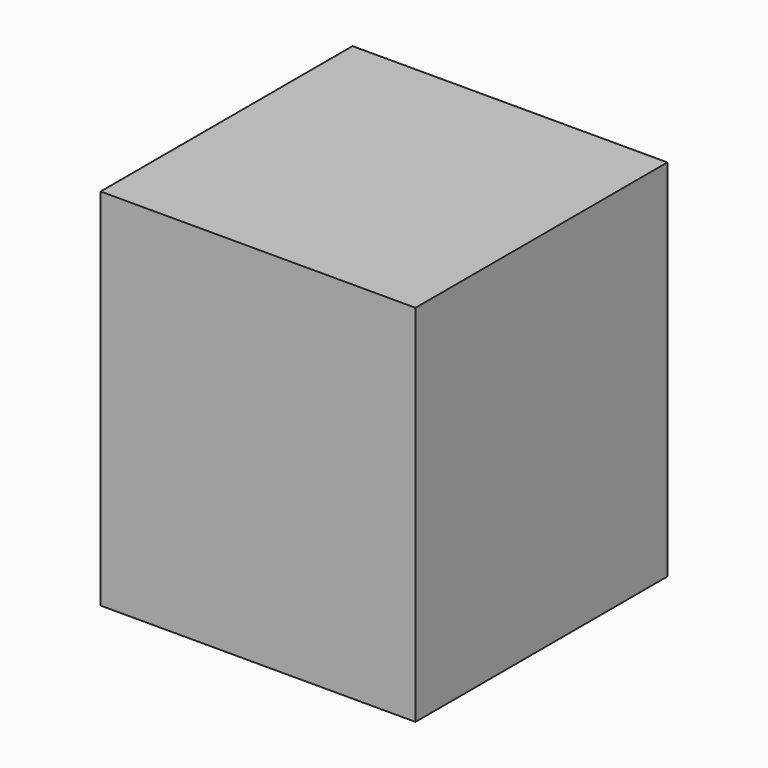
from build123d import *

# Parameters (mm, degrees)
CUBE009_W     = 8
CUBE009_H     = 8
CUBE009_DEPTH = 22
CUBE008_W     = 8
CUBE008_H     = 8
CUBE008_DEPTH = 22
CUBE007_W     = 8
CUBE007_H     = 8
CUBE007_DEPTH = 22
CUBE006_W     = 8
CUBE006_H     = 8
CUBE006_DEPTH = 22
CUBE011_W     = 18
CUBE011_H     = 1
CUBE011_DEPTH = 22
CUBE010_W     = 1
CUBE010_H     = 18
CUBE010_DEPTH = 22
CUBE005_W     = 19
CUBE005_H     = 19
CUBE005_DEPTH = 22


with BuildPart() as cube009:
    # cube009 → cube009 (new body)
    with BuildSketch(Plane(origin=(0.5, 0.5, -11), x_dir=(1, 0, 0), z_dir=(0, 0, 1))):
        with Locations((4, 4)):
            Rectangle(CUBE009_W, CUBE009_H)
    extrude(amount=CUBE009_DEPTH)


with BuildPart() as group006:
    # cube008 → cube008 (new body)
    with BuildSketch(Plane(origin=(0.5, -8.5, -11), x_dir=(1, 0, 0), z_dir=(0, 0, 1))):
        with Locations((4, 4)):
            Rectangle(CUBE008_W, CUBE008_H)
    extrude(amount=CUBE008_DEPTH)

    # Group006: union cube009
    add(cube009.part)


with BuildPart() as cube007:
    # cube007 → cube007 (new body)
    with BuildSketch(Plane(origin=(-8.5, 0.5, -11), x_dir=(1, 0, 0), z_dir=(0, 0, 1))):
        with Locations((4, 4)):
            Rectangle(CUBE007_W, CUBE007_H)
    extrude(amount=CUBE007_DEPTH)


with BuildPart() as group007:
    # cube006 → cube006 (new body)
    with BuildSketch(Plane(origin=(-8.5, -8.5, -11), x_dir=(1, 0, 0), z_dir=(0, 0, 1))):
        with Locations((4, 4)):
            Rectangle(CUBE006_W, CUBE006_H)
    extrude(amount=CUBE006_DEPTH)

    # Group005: union cube007
    add(cube007.part)

    # Group007: union Group006
    add(group006.part)


with BuildPart() as cube011:
    # cube011 → cube011 (new body)
    with BuildSketch(Plane(origin=(-9, -0.5, -11), x_dir=(1, 0, 0), z_dir=(0, 0, 1))):
        with Locations((9, 0.5)):
            Rectangle(CUBE011_W, CUBE011_H)
    extrude(amount=CUBE011_DEPTH)


with BuildPart() as group008:
    # cube010 → cube010 (new body)
    with BuildSketch(Plane(origin=(-0.5, -9, -11), x_dir=(1, 0, 0), z_dir=(0, 0, 1))):
        with Locations((0.5, 9)):
            Rectangle(CUBE010_W, CUBE010_H)
    extrude(amount=CUBE010_DEPTH)

    # Group008: union cube011
    add(cube011.part)


with BuildPart() as group009:
    # cube005 → cube005 (new body)
    with BuildSketch(Plane(origin=(-9.5, -9.5, -11), x_dir=(1, 0, 0), z_dir=(0, 0, 1))):
        with Locations((9.5, 9.5)):
            Rectangle(CUBE005_W, CUBE005_H)
    extrude(amount=CUBE005_DEPTH)

    # Group009: union Group007, Group008
    add(group007.part)
    add(group008.part)


with BuildPart() as group009_1:
    # Group009 placement: moved
    add(group009.part.moved(Location((0, 0, 11.75))))


solid = group009_1.part
